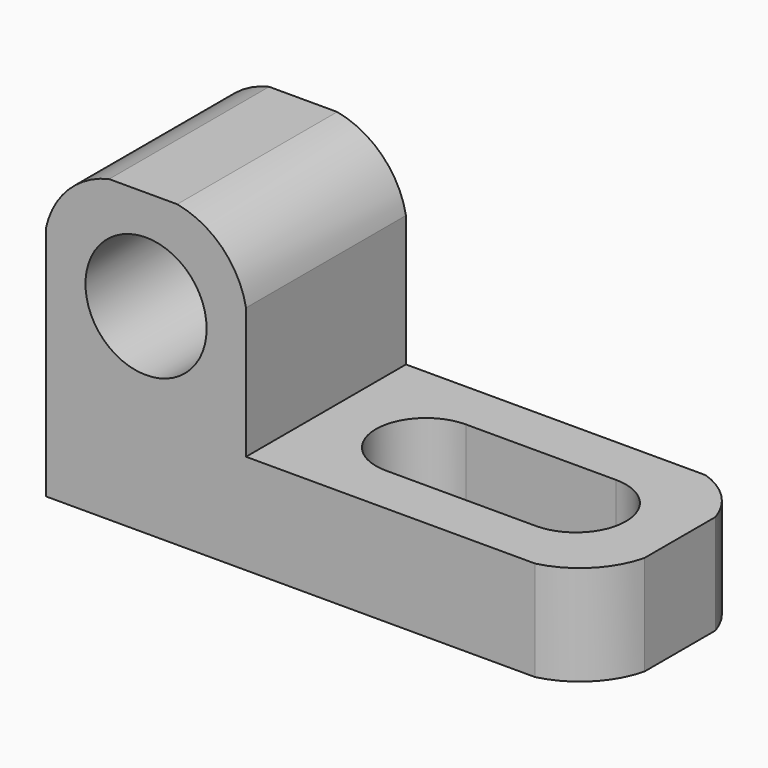
from build123d import *

# Parameters (mm, degrees)
F1_DEPTH = 25.4
F2_R     = 7.6978943935
F3_DEPTH = 25.4
F5_DEPTH = 25.4
F7_DEPTH = 12.7
F9_DEPTH = 12.7


with BuildPart() as f1:
    # F0 (on Front) → F1 (new body)
    with BuildSketch(Plane.XZ):
        Polygon((-11.8255742339, 38.1), (-37.2255742339, 38.1), (-37.2255742339, 0), (32.6244257661, 0), (32.6244257661, 12.7), (-11.8255742339, 12.7), align=None)
    extrude(amount=F1_DEPTH)

    # F2 (on face) → F3 (cut)
    with BuildSketch(Plane.XZ.offset(25.4)):
        with Locations((-24.5255742339, 25.4)):
            Circle(F2_R)
    extrude(amount=-F3_DEPTH, mode=Mode.SUBTRACT)

    # F4 (on face) → F5 (cut)
    with BuildSketch(Plane.XZ.offset(25.4)):
        with BuildLine():
            ThreePointArc((-37.2255742339, 30.0844254155), (-34.376772158, 35.2511979241), (-29.2099996494, 38.1))
            Line((-29.2099996494, 38.1), (-37.2255742339, 38.1))
            Line((-37.2255742339, 38.1), (-37.2255742339, 30.0844254155))
        make_face()
        with BuildLine():
            Line((-11.8255742339, 38.1), (-20.5647205525, 38.1))
            ThreePointArc((-20.5647205525, 38.1), (-14.8369913494, 35.0885828844), (-11.8255742339, 29.3608536814))
            Line((-11.8255742339, 29.3608536814), (-11.8255742339, 38.1))
        make_face()
    extrude(amount=-F5_DEPTH, mode=Mode.SUBTRACT)

    # F6 (on face) → F7 (cut)
    with BuildSketch(Plane.XY.offset(12.7)):
        with BuildLine():
            ThreePointArc((26.2744257661, -12.7), (24.4145538267, -8.2098719395), (19.9244257661, -6.35))
            ThreePointArc((19.9244257661, -6.35), (13.5744257661, -12.7), (19.9244257661, -19.05))
            ThreePointArc((19.9244257661, -19.05), (24.4145538267, -17.1901280605), (26.2744257661, -12.7))
        make_face()
        with BuildLine():
            ThreePointArc((0.8744257661, -6.35), (5.3645538267, -8.2098719395), (7.2244257661, -12.7))
            ThreePointArc((7.2244257661, -12.7), (5.3645538267, -17.1901280605), (0.8744257661, -19.05))
            Line((0.8744257661, -19.05), (19.9244257661, -19.05))
            ThreePointArc((19.9244257661, -19.05), (13.5744257661, -12.7), (19.9244257661, -6.35))
            Line((19.9244257661, -6.35), (0.8744257661, -6.35))
        make_face()
        with BuildLine():
            ThreePointArc((0.8744257661, -19.05), (5.3645538267, -17.1901280605), (7.2244257661, -12.7))
            ThreePointArc((7.2244257661, -12.7), (5.3645538267, -8.2098719395), (0.8744257661, -6.35))
            ThreePointArc((0.8744257661, -6.35), (-5.4755742339, -12.7), (0.8744257661, -19.05))
        make_face()
    extrude(amount=-F7_DEPTH, mode=Mode.SUBTRACT)

    # F8 (on face) → F9 (cut)
    with BuildSketch(Plane.XY.offset(12.7)):
        with BuildLine():
            ThreePointArc((26.2291806882, 0), (30.1864649562, -2.4379608099), (32.6244257661, -6.3952450779))
            Line((32.6244257661, -6.3952450779), (32.6244257661, 0))
            Line((32.6244257661, 0), (26.2291806882, 0))
        make_face()
        with BuildLine():
            Line((32.6244257661, -25.4), (32.6244257661, -17.6856669089))
            ThreePointArc((32.6244257661, -17.6856669089), (29.8469452005, -22.6225194344), (24.910092675, -25.4))
            Line((24.910092675, -25.4), (32.6244257661, -25.4))
        make_face()
    extrude(amount=-F9_DEPTH, mode=Mode.SUBTRACT)


solid = f1.part
